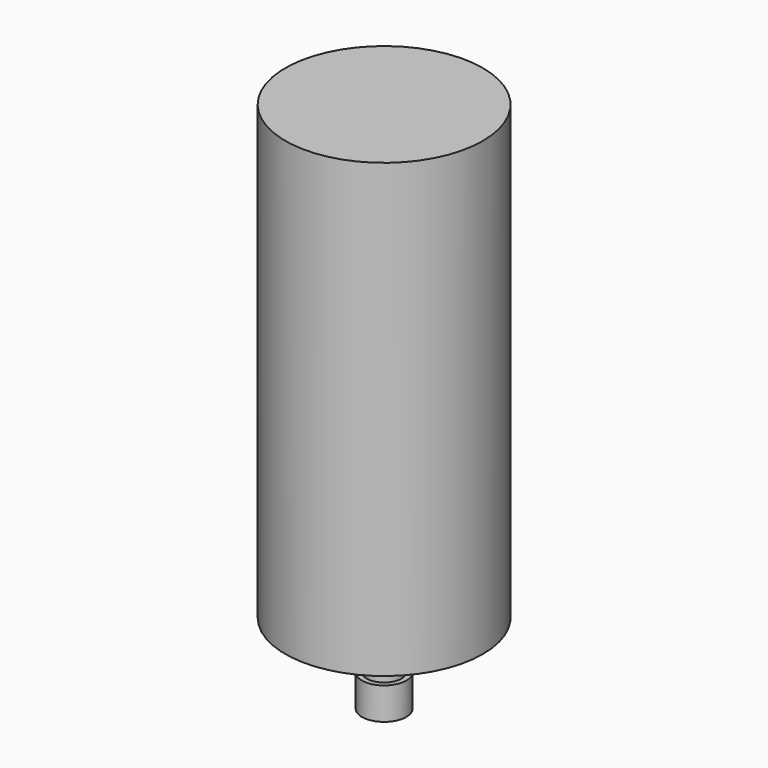
from build123d import *

# Parameters (mm, degrees)
F2_R     = 9
F3_DEPTH = 13


with BuildPart() as f1:
    # F0 (on Front) → F1 (revolve)
    with BuildSketch(Plane.XZ):
        Polygon((40, 215.5), (0, 215.5), (0, 0), (7, 0), (7, 27.5), (17.5, 27.5), (17.5, 32.5), (40, 32.5), align=None)
    revolve(axis=Axis((0, 0, 107.75), (0, 0, -1)))

    # F2 (on face) → F3 (join)
    with BuildSketch(Plane(origin=(0, 0, 0), x_dir=(1, 0, 0), z_dir=(0, 0, -1))):
        Circle(F2_R)
    extrude(amount=-F3_DEPTH)


solid = f1.part
